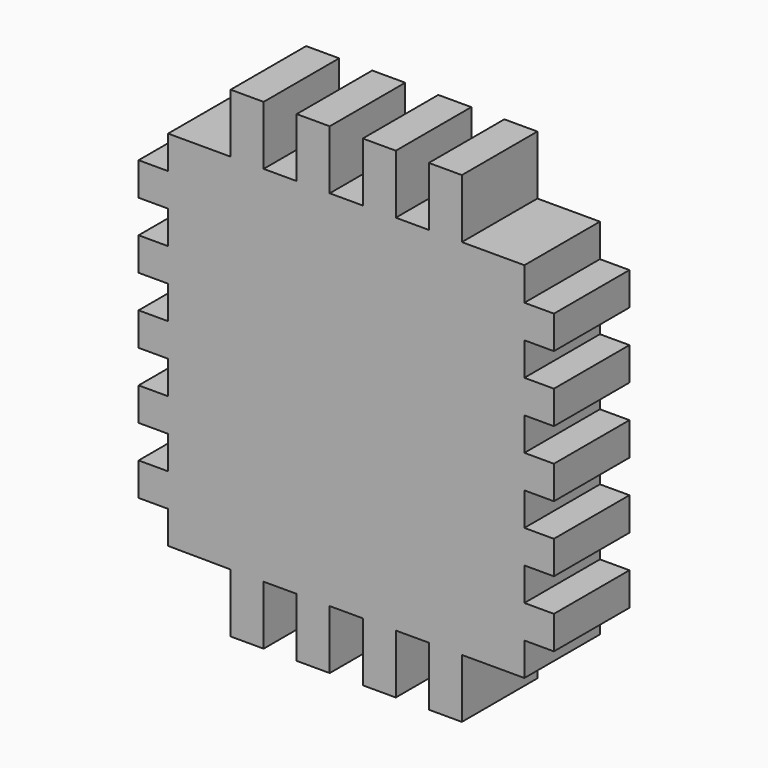
from build123d import *

# Parameters (mm, degrees)
F1_DEPTH = 10.16


with BuildPart() as f1:
    # F0 (on Front) → F1 (new body)
    with BuildSketch(Plane.XZ):
        Polygon((-18.885527, -19.996368), (-12.154527, -20.039365), (-12.154527, -26.389365), (-8.598527, -26.389365), (-8.598527, -20.039365), (-5.042527, -20.039365), (-5.042527, -26.389365), (-1.486527, -26.389365), (-1.486527, -20.039365), (2.069473, -20.039365), (2.069473, -26.389365), (5.625473, -26.389365), (5.625473, -20.039365), (9.181473, -20.039365), (9.181473, -26.389365), (12.737473, -26.389365), (12.737473, -20.039365), (19.468473, -20.039365), (19.468473, -16.483365), (22.643473, -16.483365), (22.643473, -12.927365), (19.468473, -12.927365), (19.468473, -9.371365), (22.643473, -9.371365), (22.643473, -5.815365), (19.468473, -5.815365), (19.468473, -2.259365), (22.643473, -2.259365), (22.643473, 1.296635), (19.468473, 1.296635), (19.468473, 4.852635), (22.643473, 4.852635), (22.643473, 8.408635), (19.468473, 8.408635), (19.468473, 11.964635), (22.643473, 11.964635), (22.643473, 15.520635), (19.468473, 15.520635), (19.468473, 19.076635), (12.737473, 19.076635), (12.737473, 25.426635), (9.181473, 25.426635), (9.181473, 19.076635), (5.625473, 19.076635), (5.625473, 25.426635), (2.069473, 25.426635), (2.069473, 19.076635), (-1.486527, 19.076635), (-1.486527, 25.426635), (-5.042527, 25.426635), (-5.042527, 19.076635), (-8.598527, 19.076635), (-8.598527, 25.426635), (-12.154527, 25.426635), (-12.154527, 19.076635), (-18.885527, 19.076635), (-18.885527, 15.520635), (-22.060527, 15.520635), (-22.060527, 11.964635), (-18.885527, 11.964635), (-18.885527, 8.408635), (-22.060527, 8.408635), (-22.060527, 4.852635), (-18.885527, 4.852635), (-18.885527, 1.296635), (-22.060527, 1.296635), (-22.060527, -2.259365), (-18.885527, -2.259365), (-18.885527, -5.815365), (-22.060527, -5.815365), (-22.060527, -9.371365), (-18.885527, -9.371365), (-18.885527, -12.927365), (-22.060527, -12.927365), (-22.060527, -16.483365), (-18.885527, -16.483365), align=None)
    extrude(amount=F1_DEPTH)


solid = f1.part
